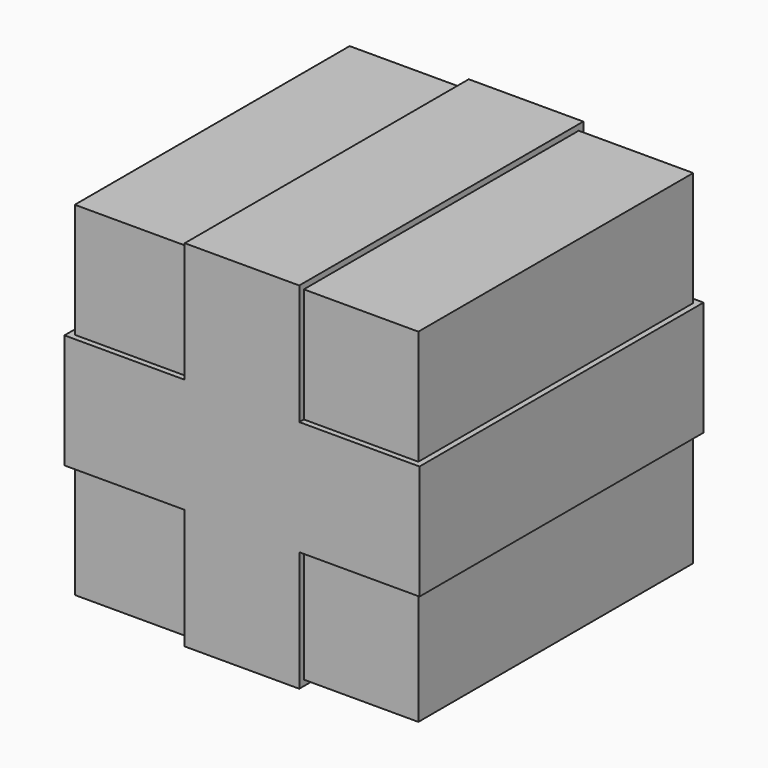
from build123d import *

# Parameters (mm, degrees)
F0_W      = 30
F0_H      = 30
F1_DEPTH  = 30
F2_W      = 10
F2_H      = 30
F3_DEPTH  = 0.5
F4_W      = 30
F4_H      = 10
F5_DEPTH  = 0.5
F6_W      = 30
F6_H      = 10
F7_DEPTH  = 0.5
F8_W      = 10
F8_H      = 30
F9_DEPTH  = 0.5
F11_DEPTH = 0.5
F13_DEPTH = 0.5


with BuildPart() as f1:
    # F0 (on Top) → F1 (new body)
    with BuildSketch(Plane.XY):
        with Locations((15, -15)):
            Rectangle(F0_W, F0_H)
    extrude(amount=F1_DEPTH)

    # F2 (on face) → F3 (join)
    with BuildSketch(Plane.XY.offset(30)):
        with Locations((15, -15)):
            Rectangle(F2_W, F2_H)
    extrude(amount=F3_DEPTH)

    # F4 (on face) → F5 (join)
    with BuildSketch(Plane(origin=(0, 0, 0), x_dir=(0, -1, 0), z_dir=(-1, 0, 0))):
        with Locations((15, 15)):
            Rectangle(F4_W, F4_H)
    extrude(amount=F5_DEPTH)

    # F6 (on face) → F7 (join)
    with BuildSketch(Plane.YZ.offset(30)):
        with Locations((-15, 15)):
            Rectangle(F6_W, F6_H)
    extrude(amount=F7_DEPTH)

    # F8 (on face) → F9 (join)
    with BuildSketch(Plane(origin=(0, 0, 0), x_dir=(1, 0, 0), z_dir=(0, 0, -1))):
        with Locations((15, 15)):
            Rectangle(F8_W, F8_H)
    extrude(amount=F9_DEPTH)

    # F10 (on face) → F11 (join)
    with BuildSketch(Plane.XZ.offset(30)):
        Polygon((10, -0.5), (20, -0.5), (20, 0), (20, 10), (30, 10), (30.5, 10), (30.5, 20), (30, 20), (20, 20), (20, 30), (20, 30.5), (10, 30.5), (10, 30), (10, 20), (0, 20), (-0.5, 20), (-0.5, 10), (0, 10), (10, 10), (10, 0), align=None)
    extrude(amount=F11_DEPTH)

    # F12 (on face) → F13 (join)
    with BuildSketch(Plane(origin=(0, 0, 0), x_dir=(-1, 0, 0), z_dir=(0, 1, 0))):
        Polygon((-20, 10), (-20, -0.5), (-10, -0.5), (-10, 10), (0.5, 10), (0.5, 20), (-10, 20), (-10, 30.5), (-20, 30.5), (-20, 20), (-30.5, 20), (-30.5, 10), align=None)
    extrude(amount=F13_DEPTH)


solid = f1.part
